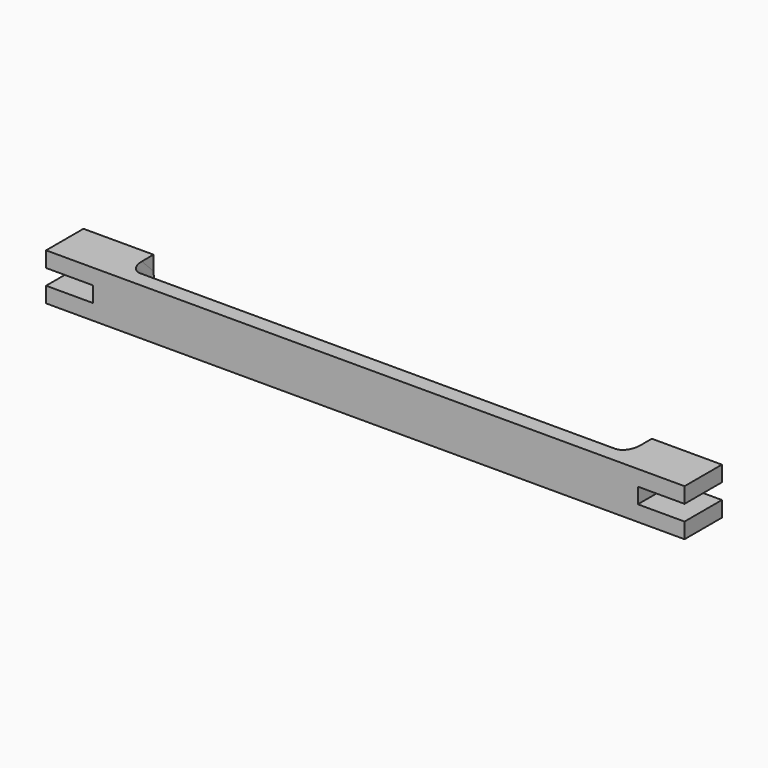
from build123d import *

# Parameters (mm, degrees)
F1_DEPTH = 38.1
F4_DEPTH = 203.2
F5_R     = 9.525


with BuildPart() as f1:
    # F0 (on Front) → F1 (new body)
    with BuildSketch(Plane.XZ):
        Polygon((520.7, 0), (0, 0), (0, -12.7), (38.1, -12.7), (38.1, -25.4), (0, -25.4), (0, -38.1), (520.7, -38.1), (520.7, -25.4), (482.6, -25.4), (482.6, -12.7), (520.7, -12.7), align=None)
    extrude(amount=F1_DEPTH)

    # F3 (on offset) → F4 (cut, symmetric)
    with BuildSketch(Plane.YZ.offset(260.35)):
        Polygon((0, -25.4), (0, 0), (-25.4, 0), align=None)
    extrude(amount=F4_DEPTH, both=True, mode=Mode.SUBTRACT)

    # F5
    f5_edges = [f1.edges().sort_by_distance(p)[0] for p in [
        (463.55, -12.7, -12.7),
        (57.15, -12.7, -12.7),
    ]]
    fillet(f5_edges, radius=F5_R)


solid = f1.part
